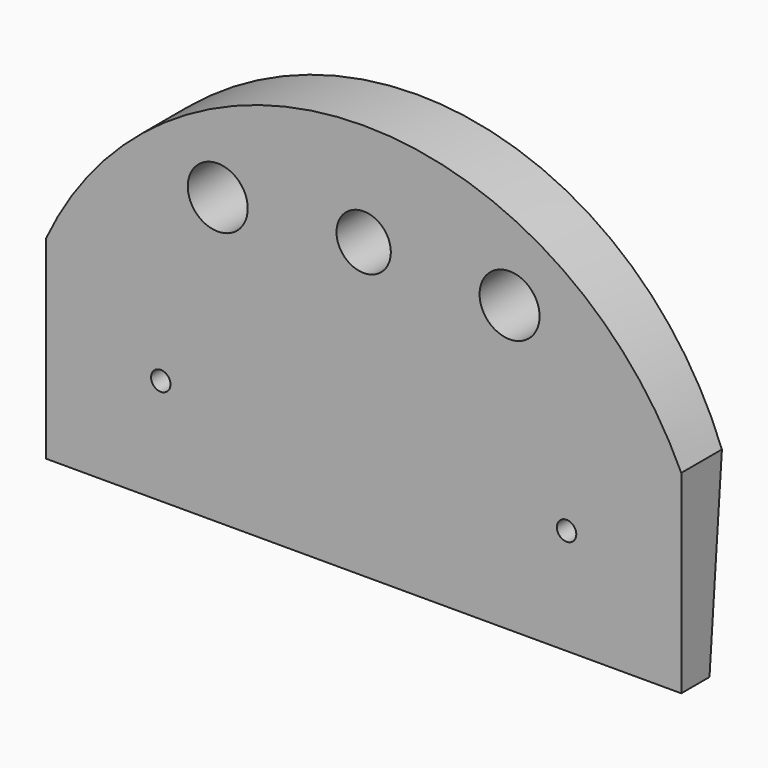
from build123d import *

# Parameters (mm, degrees)
F1_DEPTH = 19
F3_DEPTH = 180.001
F5_D     = 5.5
F6_R     = 7.7
F6_R_2   = 8.5
F7_DEPTH = 19.001
F9_R     = 17
F9_R_2   = 13
F12_R    = 14
F12_R_2  = 8.5


with BuildPart() as f1:
    # F0 (on Front) → F1 (new body)
    with BuildSketch(Plane.XZ):
        with BuildLine():
            Line((0, 55), (0, 0))
            Line((0, 0), (180, 0))
            Line((180, 0), (180, 55))
            ThreePointArc((180, 55), (90, 112.4), (0, 55))
        make_face()
    extrude(amount=F1_DEPTH)

    # F2 (on face) → F3 (cut, through all)
    with BuildSketch(Plane.YZ.offset(180)):
        Polygon((0, 112.4), (-9, 0), (0, 0), align=None)
    extrude(amount=-F3_DEPTH, mode=Mode.SUBTRACT)

    # F5 (through all)
    with Locations(Plane.XZ.offset(19)):
        with Locations((32.5, 30), (147.5, 30)):
            Hole(F5_D / 2)

    # F6 (on face) → F7 (cut, through all)
    with BuildSketch(Plane.XZ.offset(19)):
        with Locations((90, 83.3)):
            Circle(F6_R)
        with Locations((131.35, 81)):
            Circle(F6_R_2)
        with Locations((48.65, 81)):
            Circle(F6_R_2)
    extrude(amount=-F7_DEPTH, mode=Mode.SUBTRACT)

    # F9 (on offset) → F10 (join, up to the next surface of F1)
    with BuildSketch(Plane.XZ.offset(-5)):
        with Locations((90, 83.3)):
            Circle(F9_R)
        with Locations((90, 83.3)):
            Circle(F9_R_2, mode=Mode.SUBTRACT)
    extrude(until=Until.NEXT)

    # F12 (on offset) → F13 (join, up to the next surface of F1)
    with BuildSketch(Plane.XZ.offset(-1)):
        with Locations((131.35, 81)):
            Circle(F12_R)
        with Locations((131.35, 81)):
            Circle(F12_R_2, mode=Mode.SUBTRACT)
        with Locations((48.65, 81)):
            Circle(F12_R)
        with Locations((48.65, 81)):
            Circle(F12_R_2, mode=Mode.SUBTRACT)
    extrude(until=Until.NEXT)


solid = f1.part
